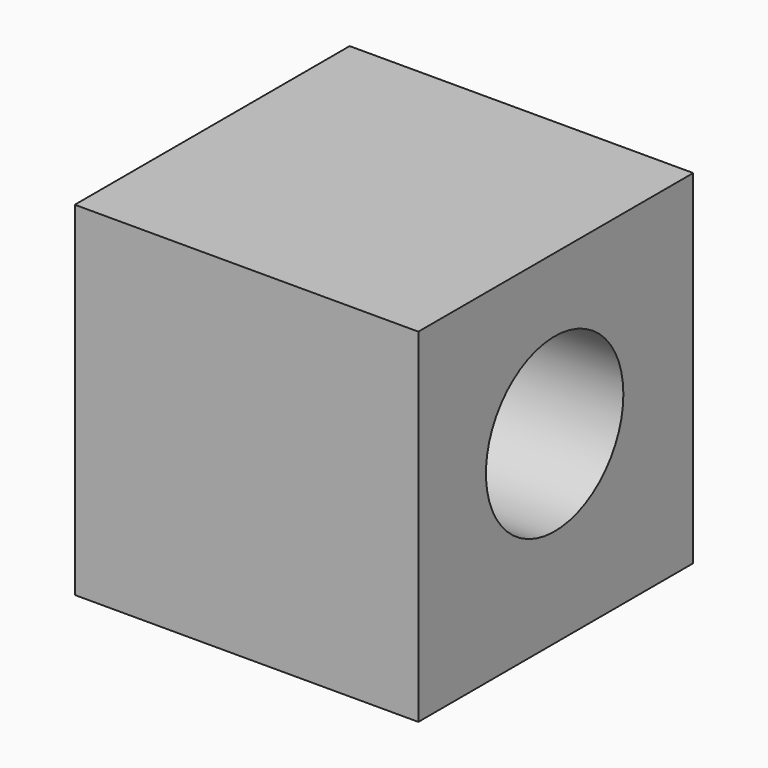
from build123d import *

# Parameters (mm, degrees)
F0_W     = 50.8
F0_H     = 50.8
F1_DEPTH = 50.8
F2_R     = 12.7
F3_DEPTH = 50.8
F4_W     = 25.4
F4_H     = 25.4
F5_DEPTH = 12.7


with BuildPart() as f1:
    # F0 (on Right) → F1 (new body)
    with BuildSketch(Plane.YZ):
        with Locations((-33.802004, 33.420096)):
            Rectangle(F0_W, F0_H)
    extrude(amount=F1_DEPTH)

    # F2 (on face) → F3 (cut)
    with BuildSketch(Plane.YZ.offset(50.8)):
        with Locations((-34.011841, 35.279486)):
            Circle(F2_R)
    extrude(amount=-F3_DEPTH, mode=Mode.SUBTRACT)

    # F4 (on face) → F5 (join)
    with BuildSketch(Plane(origin=(0, -8.402004, 0), x_dir=(-1, 0, 0), z_dir=(0, 1, 0))):
        with Locations((-26.066826, 37.524144)):
            Rectangle(F4_W, F4_H)
    extrude(amount=F5_DEPTH)


solid = f1.part
